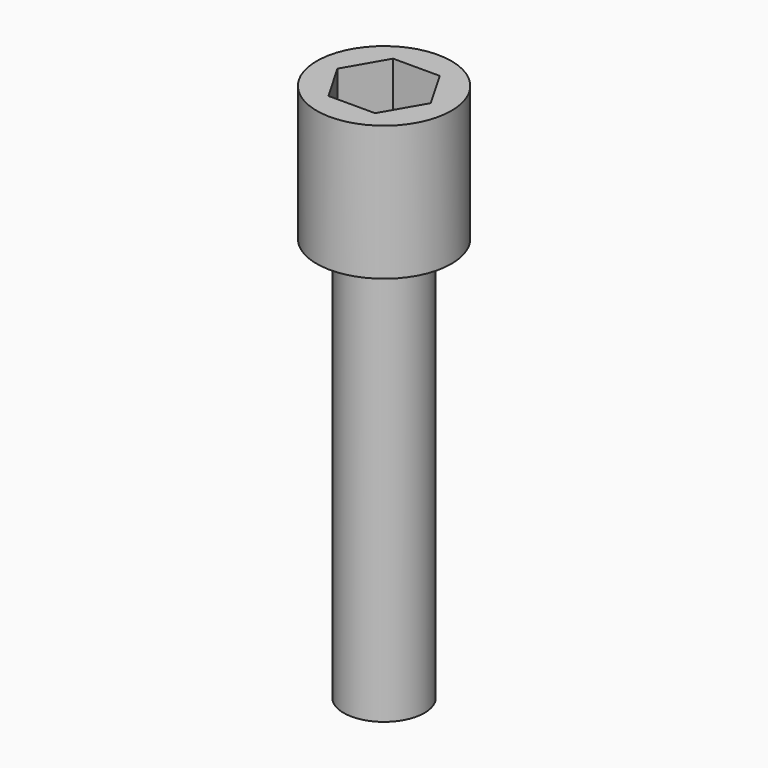
from build123d import *

# Parameters (mm, degrees)
F0_R     = 1.5
F1_DEPTH = 15
F2_R     = 2.5
F2_R_2   = 1.5
F3_DEPTH = 5
F5_DEPTH = 3


with BuildPart() as f1:
    # F0 (on Top) → F1 (new body)
    with BuildSketch(Plane.XY):
        Circle(F0_R)
    extrude(amount=-F1_DEPTH)

    # F2 (on face) → F3 (join)
    with BuildSketch(Plane.XY):
        Circle(F2_R)
        Circle(F2_R_2, mode=Mode.SUBTRACT)
        Circle(F2_R_2)
    extrude(amount=F3_DEPTH)

    # F4 (on face) → F5 (cut)
    with BuildSketch(Plane.XY.offset(5)):
        Polygon((-0.866025, 1.5), (-1.732051, 0), (-0.866025, -1.5), (0.866025, -1.5), (1.732051, 0), (0.866025, 1.5), align=None)
    extrude(amount=-F5_DEPTH, mode=Mode.SUBTRACT)


solid = f1.part
